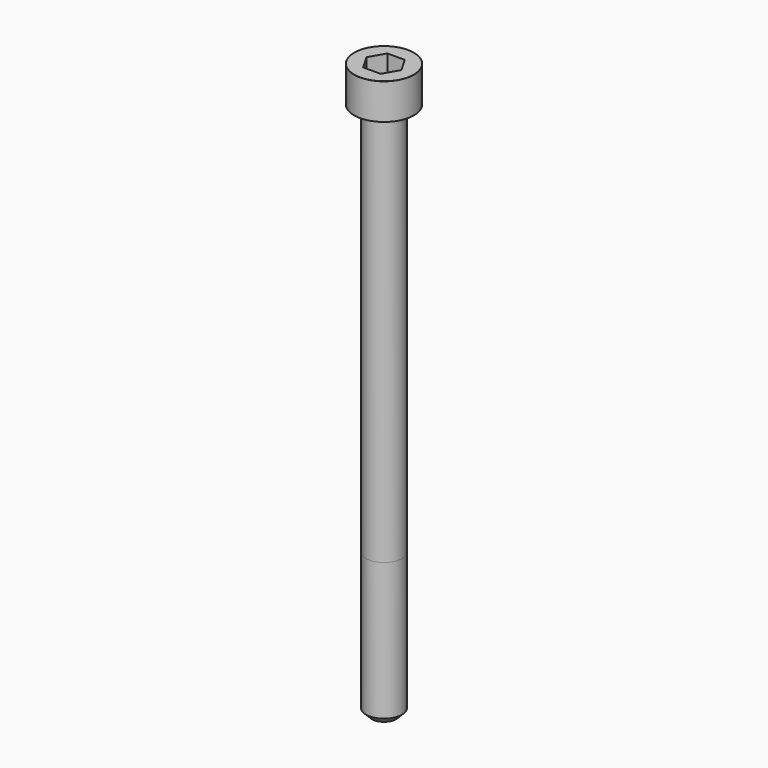
from build123d import *

# Parameters (mm, degrees)
POCKET_DEPTH = 5.06


with BuildPart() as part:
    # Sketch → Revolve (revolve)
    with BuildSketch(Plane.YZ):
        with BuildLine():
            Line((2.999, 0), (5, 0))
            Line((5, 0), (5, 5.97229))
            ThreePointArc((5, 5.97229), (4.991884, 5.991884), (4.97229, 6))
            Line((4.97229, 6), (0, 6))
            Line((0, -90), (0, 6))
            Line((2, -90), (0, -90))
            Line((3, -89), (2, -90))
            Line((3, -66), (3, -89))
            Line((2.999, 0), (3, -66))
        make_face()
    revolve(axis=Axis((0, 0, 0), (0, 0, 1)))

    # Sketch001 → Pocket (cut)
    with BuildSketch(Plane.XY.offset(6)):
        Polygon((2.921392, 0), (1.460696, 2.53), (-1.460696, 2.53), (-2.921392, 0), (-1.460696, -2.53), (1.460696, -2.53), align=None)
    extrude(amount=-POCKET_DEPTH, mode=Mode.SUBTRACT)


solid = part.part
